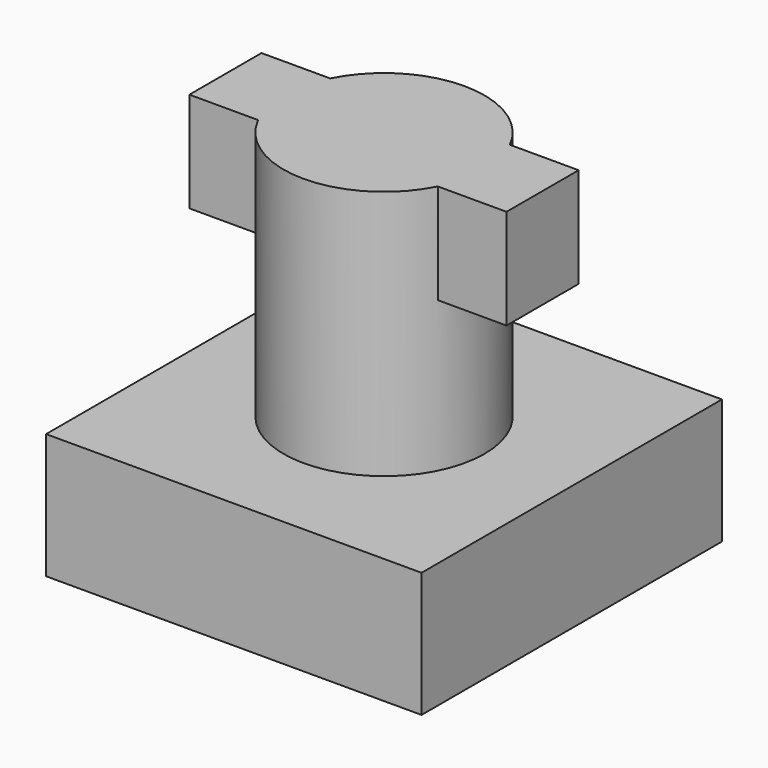
from build123d import *

# Parameters (mm, degrees)
F0_R     = 5.09905
F1_DEPTH = 12.7
F3_DEPTH = 5.08
F4_W     = 19.05
F4_H     = 19.05
F5_DEPTH = 6.35
F7_DEPTH = 0.635
F8_ANGLE = -90


with BuildPart() as f1:
    # F0 (on Front) → F1 (new body)
    with BuildSketch(Plane.XZ):
        Circle(F0_R)
    extrude(amount=F1_DEPTH)

    # F2 (on face) → F3 (join)
    with BuildSketch(Plane.XZ.offset(12.7)):
        with BuildLine():
            ThreePointArc((-4.5579068554, -2.286), (-5.09905, 0), (-4.5579068554, 2.286))
            Line((-4.5579068554, 2.286), (-8.04545, 2.286))
            Line((-8.04545, 2.286), (-8.04545, -2.286))
            Line((-8.04545, -2.286), (-4.5579068554, -2.286))
        make_face()
        with BuildLine():
            Line((8.04545, 2.286), (4.5579068554, 2.286))
            ThreePointArc((4.5579068554, 2.286), (4.9619202862, 1.1745884282), (5.09905, 0))
            ThreePointArc((5.09905, 0), (4.9619202862, -1.1745884282), (4.5579068554, -2.286))
            Line((4.5579068554, -2.286), (8.04545, -2.286))
            Line((8.04545, -2.286), (8.04545, 2.286))
        make_face()
    extrude(amount=-F3_DEPTH)

    # F4 (on Front) → F5 (join)
    with BuildSketch(Plane.XZ):
        Rectangle(F4_W, F4_H)
    extrude(amount=-F5_DEPTH)

    # F6 (on face) → F7 (cut)
    with BuildSketch(Plane(origin=(0, 6.35, 0), x_dir=(-1, 0, 0), z_dir=(0, 1, 0))):
        with BuildLine():
            Line((-6.91515, 6.91515), (-5.16255, 6.91515))
            ThreePointArc((-5.16255, 6.91515), (-8.1544253447, 8.1544253447), (-6.91515, 5.16255))
            Line((-6.91515, 5.16255), (-6.91515, 6.91515))
        make_face()
        with BuildLine():
            ThreePointArc((-6.91515, 5.16255), (-5.6758746553, 5.6758746553), (-5.16255, 6.91515))
            Line((-5.16255, 6.91515), (-6.91515, 6.91515))
            Line((-6.91515, 6.91515), (-6.91515, 5.16255))
        make_face()
        with BuildLine():
            ThreePointArc((8.66775, 6.91515), (6.91515, 8.66775), (5.16255, 6.91515))
            Line((5.16255, 6.91515), (6.91515, 6.91515))
            Line((6.91515, 6.91515), (6.91515, 5.16255))
            ThreePointArc((6.91515, 5.16255), (8.1544253447, 5.6758746553), (8.66775, 6.91515))
        make_face()
        with BuildLine():
            Line((6.91515, 6.91515), (5.16255, 6.91515))
            ThreePointArc((5.16255, 6.91515), (5.6758746553, 5.6758746553), (6.91515, 5.16255))
            Line((6.91515, 5.16255), (6.91515, 6.91515))
        make_face()
        with BuildLine():
            Line((6.91515, -6.91515), (6.91515, -5.16255))
            ThreePointArc((6.91515, -5.16255), (5.6758746553, -5.6758746553), (5.16255, -6.91515))
            Line((5.16255, -6.91515), (6.91515, -6.91515))
        make_face()
        with BuildLine():
            ThreePointArc((8.66775, -6.91515), (8.1544253447, -5.6758746553), (6.91515, -5.16255))
            Line((6.91515, -5.16255), (6.91515, -6.91515))
            Line((6.91515, -6.91515), (5.16255, -6.91515))
            ThreePointArc((5.16255, -6.91515), (6.91515, -8.66775), (8.66775, -6.91515))
        make_face()
        with BuildLine():
            ThreePointArc((-5.16255, -6.91515), (-5.6758746553, -5.6758746553), (-6.91515, -5.16255))
            Line((-6.91515, -5.16255), (-6.91515, -6.91515))
            Line((-6.91515, -6.91515), (-5.16255, -6.91515))
        make_face()
        with BuildLine():
            Line((-6.91515, -6.91515), (-6.91515, -5.16255))
            ThreePointArc((-6.91515, -5.16255), (-8.1544253447, -8.1544253447), (-5.16255, -6.91515))
            Line((-5.16255, -6.91515), (-6.91515, -6.91515))
        make_face()
    extrude(amount=-F7_DEPTH, mode=Mode.SUBTRACT)


with BuildPart() as f1_1:
    # F8: moved
    add(f1.part.rotate(Axis((0, 6.35, -9.525), (1, 0, 0)), F8_ANGLE))


solid = f1_1.part
